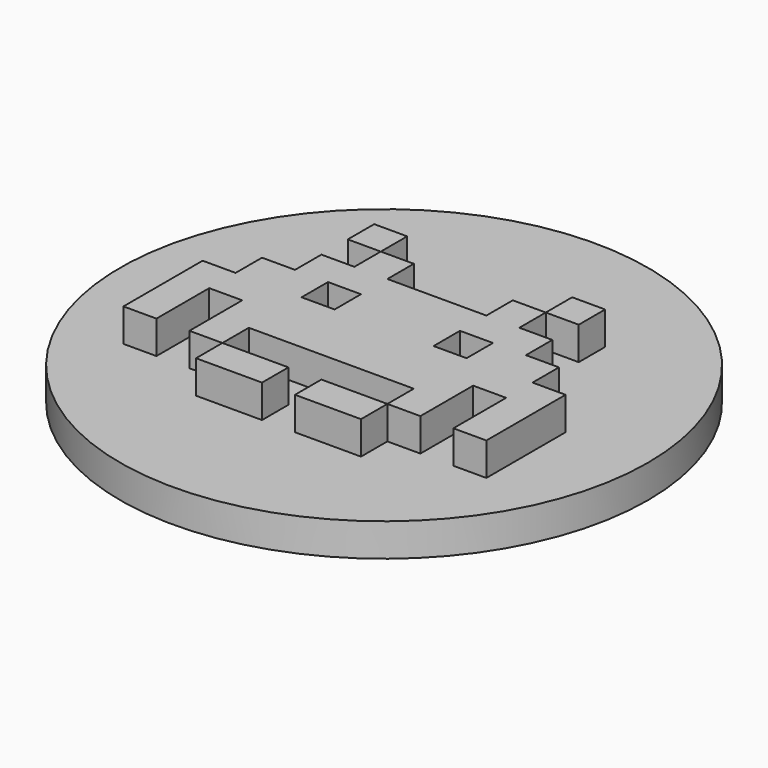
from build123d import *

# Parameters (mm, degrees)
CYLINDER_R     = 80
CYLINDER_DEPTH = 10
BOX005_W       = 10
BOX005_H       = 10
BOX005_DEPTH   = 10
BOX003_W       = 20
BOX003_H       = 10
BOX003_DEPTH   = 10
BOX010_W       = 70
BOX010_H       = 10
BOX010_DEPTH   = 10
BOX017_W       = 20
BOX017_H       = 10
BOX017_DEPTH   = 10
BOX001_W       = 10
BOX001_H       = 10
BOX001_DEPTH   = 10
BOX008_W       = 110
BOX008_H       = 10
BOX008_DEPTH   = 10
BOX009_W       = 10
BOX009_H       = 10
BOX009_DEPTH   = 10
BOX011_W       = 10
BOX011_H       = 10
BOX011_DEPTH   = 10
BOX016_W       = 20
BOX016_H       = 10
BOX016_DEPTH   = 10
BOX006_W       = 30
BOX006_H       = 10
BOX006_DEPTH   = 10
BOX013_W       = 10
BOX013_H       = 10
BOX013_DEPTH   = 10
BOX015_W       = 10
BOX015_H       = 10
BOX015_DEPTH   = 10
BOX007_W       = 20
BOX007_H       = 10
BOX007_DEPTH   = 10
BOX012_W       = 10
BOX012_H       = 10
BOX012_DEPTH   = 10
BOX002_W       = 70
BOX002_H       = 10
BOX002_DEPTH   = 10
BOX014_W       = 10
BOX014_H       = 10
BOX014_DEPTH   = 10
BOX004_W       = 10
BOX004_H       = 10
BOX004_DEPTH   = 10
BOX_W          = 10
BOX_H          = 10
BOX_DEPTH      = 10


with BuildPart() as cilindro:
    # Cylinder → Cylinder (new body)
    with BuildSketch(Plane.XY.offset(-10)):
        Circle(CYLINDER_R)
    extrude(amount=CYLINDER_DEPTH)


with BuildPart() as cubo005:
    # Box005 → Box005 (new body)
    with BuildSketch(Plane(origin=(50, -10, 0), x_dir=(1, 0, 0), z_dir=(0, 0, 1))):
        with Locations((5, 5)):
            Rectangle(BOX005_W, BOX005_H)
    extrude(amount=BOX005_DEPTH)


with BuildPart() as cubo003:
    # Box003 → Box003 (new body)
    with BuildSketch(Plane(origin=(-10, -30, 0), x_dir=(1, 0, 0), z_dir=(0, 0, 1))):
        with Locations((10, 5)):
            Rectangle(BOX003_W, BOX003_H)
    extrude(amount=BOX003_DEPTH)


with BuildPart() as cubo010:
    # Box010 → Box010 (new body)
    with BuildSketch(Plane(origin=(0, -50, 0), x_dir=(1, 0, 0), z_dir=(0, 0, 1))):
        with Locations((35, 5)):
            Rectangle(BOX010_W, BOX010_H)
    extrude(amount=BOX010_DEPTH)


with BuildPart() as cubo017:
    # Box017 → Box017 (new body)
    with BuildSketch(Plane(origin=(40, -70, 0), x_dir=(1, 0, 0), z_dir=(0, 0, 1))):
        with Locations((10, 5)):
            Rectangle(BOX017_W, BOX017_H)
    extrude(amount=BOX017_DEPTH)


with BuildPart() as cubo001:
    # Box001 → Box001 (new body)
    with BuildSketch(Plane(origin=(10, -10, 0), x_dir=(1, 0, 0), z_dir=(0, 0, 1))):
        with Locations((5, 5)):
            Rectangle(BOX001_W, BOX001_H)
    extrude(amount=BOX001_DEPTH)


with BuildPart() as cubo008:
    # Box008 → Box008 (new body)
    with BuildSketch(Plane(origin=(-20, -40, 0), x_dir=(1, 0, 0), z_dir=(0, 0, 1))):
        with Locations((55, 5)):
            Rectangle(BOX008_W, BOX008_H)
    extrude(amount=BOX008_DEPTH)


with BuildPart() as cubo009:
    # Box009 → Box009 (new body)
    with BuildSketch(Plane(origin=(-20, -50, 0), x_dir=(1, 0, 0), z_dir=(0, 0, 1))):
        with Locations((5, 5)):
            Rectangle(BOX009_W, BOX009_H)
    extrude(amount=BOX009_DEPTH)


with BuildPart() as cubo011:
    # Box011 → Box011 (new body)
    with BuildSketch(Plane(origin=(80, -50, 0), x_dir=(1, 0, 0), z_dir=(0, 0, 1))):
        with Locations((5, 5)):
            Rectangle(BOX011_W, BOX011_H)
    extrude(amount=BOX011_DEPTH)


with BuildPart() as cubo016:
    # Box016 → Box016 (new body)
    with BuildSketch(Plane(origin=(10, -70, 0), x_dir=(1, 0, 0), z_dir=(0, 0, 1))):
        with Locations((10, 5)):
            Rectangle(BOX016_W, BOX016_H)
    extrude(amount=BOX016_DEPTH)


with BuildPart() as cubo006:
    # Box006 → Box006 (new body)
    with BuildSketch(Plane(origin=(20, -30, 0), x_dir=(1, 0, 0), z_dir=(0, 0, 1))):
        with Locations((15, 5)):
            Rectangle(BOX006_W, BOX006_H)
    extrude(amount=BOX006_DEPTH)


with BuildPart() as cubo013:
    # Box013 → Box013 (new body)
    with BuildSketch(Plane(origin=(0, -60, 0), x_dir=(1, 0, 0), z_dir=(0, 0, 1))):
        with Locations((5, 5)):
            Rectangle(BOX013_W, BOX013_H)
    extrude(amount=BOX013_DEPTH)


with BuildPart() as cubo015:
    # Box015 → Box015 (new body)
    with BuildSketch(Plane(origin=(80, -60, 0), x_dir=(1, 0, 0), z_dir=(0, 0, 1))):
        with Locations((5, 5)):
            Rectangle(BOX015_W, BOX015_H)
    extrude(amount=BOX015_DEPTH)


with BuildPart() as cubo007:
    # Box007 → Box007 (new body)
    with BuildSketch(Plane(origin=(60, -30, 0), x_dir=(1, 0, 0), z_dir=(0, 0, 1))):
        with Locations((10, 5)):
            Rectangle(BOX007_W, BOX007_H)
    extrude(amount=BOX007_DEPTH)


with BuildPart() as cubo012:
    # Box012 → Box012 (new body)
    with BuildSketch(Plane(origin=(-20, -60, 0), x_dir=(1, 0, 0), z_dir=(0, 0, 1))):
        with Locations((5, 5)):
            Rectangle(BOX012_W, BOX012_H)
    extrude(amount=BOX012_DEPTH)


with BuildPart() as cubo002:
    # Box002 → Box002 (new body)
    with BuildSketch(Plane(origin=(0, -20, 0), x_dir=(1, 0, 0), z_dir=(0, 0, 1))):
        with Locations((35, 5)):
            Rectangle(BOX002_W, BOX002_H)
    extrude(amount=BOX002_DEPTH)


with BuildPart() as cubo014:
    # Box014 → Box014 (new body)
    with BuildSketch(Plane(origin=(60, -60, 0), x_dir=(1, 0, 0), z_dir=(0, 0, 1))):
        with Locations((5, 5)):
            Rectangle(BOX014_W, BOX014_H)
    extrude(amount=BOX014_DEPTH)


with BuildPart() as cubo004:
    # Box004 → Box004 (new body)
    with BuildSketch(Plane(origin=(60, 0, 0), x_dir=(1, 0, 0), z_dir=(0, 0, 1))):
        with Locations((5, 5)):
            Rectangle(BOX004_W, BOX004_H)
    extrude(amount=BOX004_DEPTH)


with BuildPart() as fusion001:
    # Box → Box (new body)
    with BuildSketch(Plane.XY):
        with Locations((5, 5)):
            Rectangle(BOX_W, BOX_H)
    extrude(amount=BOX_DEPTH)

    # Fusion: union Cubo005, Cubo003, Cubo010, Cubo017, Cubo001, Cubo008, Cubo009, Cubo011, Cubo016, Cubo006, Cubo013, Cubo015, Cubo007, Cubo012, Cubo002, Cubo014, Cubo004
    add(cubo005.part)
    add(cubo003.part)
    add(cubo010.part)
    add(cubo017.part)
    add(cubo001.part)
    add(cubo008.part)
    add(cubo009.part)
    add(cubo011.part)
    add(cubo016.part)
    add(cubo006.part)
    add(cubo013.part)
    add(cubo015.part)
    add(cubo007.part)
    add(cubo012.part)
    add(cubo002.part)
    add(cubo014.part)
    add(cubo004.part)


with BuildPart() as fusion001_1:
    # Fusion placement: moved
    add(fusion001.part.moved(Location((-35, 30, 0))))

    # Fusion001: union Cilindro
    add(cilindro.part)


solid = fusion001_1.part
